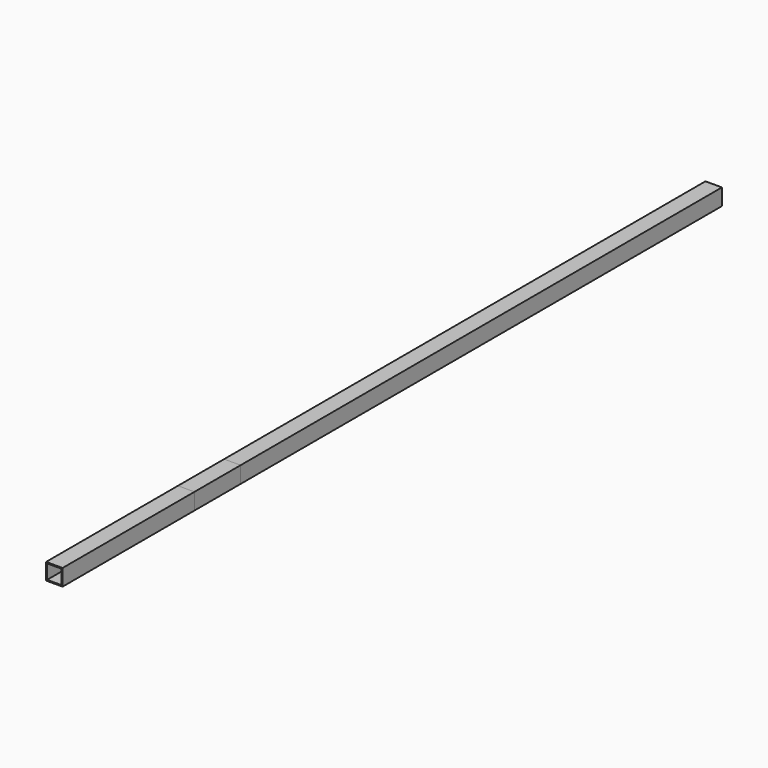
from build123d import *

# Parameters (mm, degrees)
F0_W     = 50.8
F0_H     = 50.8
F0_W_2   = 44.45
F0_H_2   = 44.45
F1_DEPTH = 2540
F2_DEPTH = 685.8
F3_DEPTH = 508


with BuildPart() as f1:
    # F0 (on Front) → F1 (new body)
    with BuildSketch(Plane.XZ):
        Rectangle(F0_W, F0_H)
        Rectangle(F0_W_2, F0_H_2, mode=Mode.SUBTRACT)
    extrude(amount=-F1_DEPTH)


with BuildPart() as f2:
    # F0 (on Front) → F2 (new body)
    with BuildSketch(Plane.XZ):
        Rectangle(F0_W, F0_H)
        Rectangle(F0_W_2, F0_H_2, mode=Mode.SUBTRACT)
    extrude(amount=-F2_DEPTH)


with BuildPart() as f3:
    # F0 (on Front) → F3 (new body)
    with BuildSketch(Plane.XZ):
        Rectangle(F0_W, F0_H)
        Rectangle(F0_W_2, F0_H_2, mode=Mode.SUBTRACT)
    extrude(amount=-F3_DEPTH)


solid = Compound([f1.part, f2.part, f3.part])
